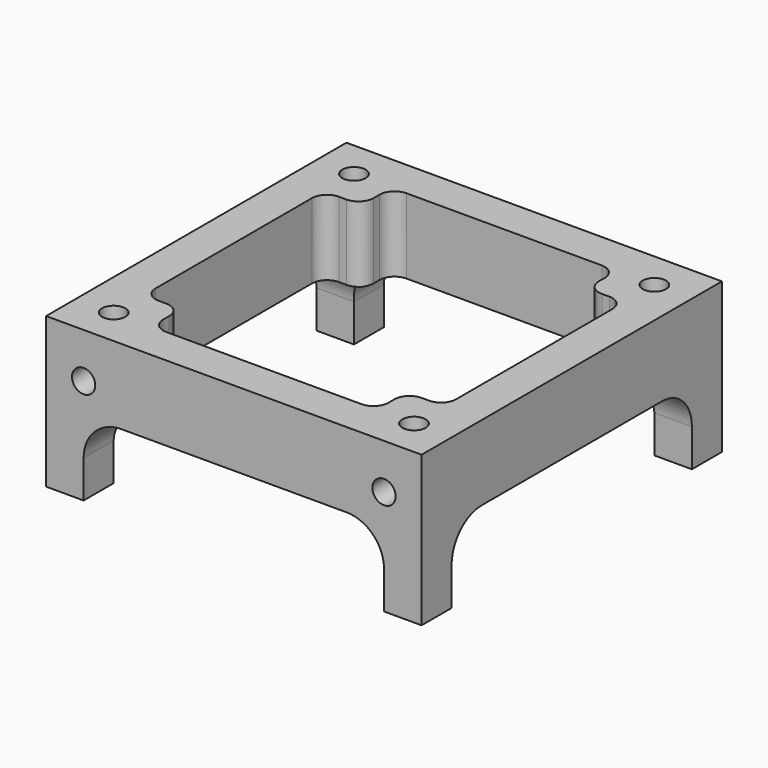
from build123d import *

# Parameters (mm, degrees)
SKETCH034_W     = 50
SKETCH034_H     = 50
PAD006_DEPTH    = 20
POCKET029_DEPTH = 20.001
POCKET030_DEPTH = 50.001
POCKET031_DEPTH = 50.001
SKETCH038_R     = 1.55
POCKET032_DEPTH = 5
SKETCH039_R     = 1.55
POCKET033_DEPTH = 3


with BuildPart() as part:
    # Sketch034 → Pad006 (new body)
    with BuildSketch(Plane.XY):
        Rectangle(SKETCH034_W, SKETCH034_H)
    extrude(amount=PAD006_DEPTH)

    # Sketch035 (on Face6 of Pad006) → Pocket029 (cut, through all)
    with BuildSketch(Plane.XY.offset(20)):
        with BuildLine():
            Line((-18, 15), (-17, 15))
            ThreePointArc((-17, 15), (-15.585786, 15.585786), (-15, 17))
            Line((-15, 17), (-15, 18))
            ThreePointArc((-13, 20), (-14.414214, 19.414214), (-15, 18))
            Line((-13, 20), (13, 20))
            ThreePointArc((15, 18), (14.414214, 19.414214), (13, 20))
            Line((15, 18), (15, 17))
            ThreePointArc((15, 17), (15.585786, 15.585786), (17, 15))
            Line((17, 15), (18, 15))
            ThreePointArc((20, 13), (19.414214, 14.414214), (18, 15))
            Line((20, 13), (20, -13))
            ThreePointArc((18, -15), (19.414214, -14.414214), (20, -13))
            Line((18, -15), (17, -15))
            ThreePointArc((17, -15), (15.585786, -15.585786), (15, -17))
            Line((15, -17), (15, -18))
            ThreePointArc((13, -20), (14.414214, -19.414214), (15, -18))
            Line((13, -20), (-13, -20))
            ThreePointArc((-15, -18), (-14.414214, -19.414214), (-13, -20))
            Line((-15, -18), (-15, -17))
            ThreePointArc((-15, -17), (-15.585786, -15.585786), (-17, -15))
            Line((-17, -15), (-18, -15))
            ThreePointArc((-20, -13), (-19.414214, -14.414214), (-18, -15))
            Line((-20, -13), (-20, 13))
            ThreePointArc((-18, 15), (-19.414214, 14.414214), (-20, 13))
        make_face()
    extrude(amount=-POCKET029_DEPTH, mode=Mode.SUBTRACT)

    # Sketch036 (on Face3 of Pocket029) → Pocket030 (cut, through all)
    with BuildSketch(Plane.YZ.offset(25)):
        with BuildLine():
            Line((-15, 10), (15, 10))
            ThreePointArc((20, 5), (18.535534, 8.535534), (15, 10))
            Line((20, 5), (20, 0))
            Line((20, 0), (-20, 0))
            Line((-20, 0), (-20, 5))
            ThreePointArc((-15, 10), (-18.535534, 8.535534), (-20, 5))
        make_face()
    extrude(amount=-POCKET030_DEPTH, mode=Mode.SUBTRACT)

    # Sketch037 (on Face6 of Pocket029) → Pocket031 (cut, through all)
    with BuildSketch(Plane.XZ.offset(25)):
        with BuildLine():
            Line((-15, 10), (15, 10))
            ThreePointArc((20, 5), (18.535534, 8.535534), (15, 10))
            Line((20, 5), (20, 0))
            Line((20, 0), (-20, 0))
            Line((-20, 0), (-20, 5))
            ThreePointArc((-15, 10), (-18.535534, 8.535534), (-20, 5))
        make_face()
    extrude(amount=-POCKET031_DEPTH, mode=Mode.SUBTRACT)

    # Sketch038 → Pocket032 (cut)
    with BuildSketch(Plane.XY.offset(20)):
        with Locations((-20, 20)):
            Circle(SKETCH038_R)
        with Locations((20, 20)):
            Circle(SKETCH038_R)
        with Locations((20, -20)):
            Circle(SKETCH038_R)
        with Locations((-20, -20)):
            Circle(SKETCH038_R)
    extrude(amount=-POCKET032_DEPTH, mode=Mode.SUBTRACT)

    # Sketch039 (on Face27 of Pocket032) → Pocket033 (cut)
    with BuildSketch(Plane.XZ.offset(25)):
        with Locations((-20, 14)):
            Circle(SKETCH039_R)
        with Locations((20, 14)):
            Circle(SKETCH039_R)
    extrude(amount=-POCKET033_DEPTH, mode=Mode.SUBTRACT)


with BuildPart() as part_1:
    # Body007 placement: moved
    add(part.part.moved(Location((85, 25, 0))))


solid = part_1.part
